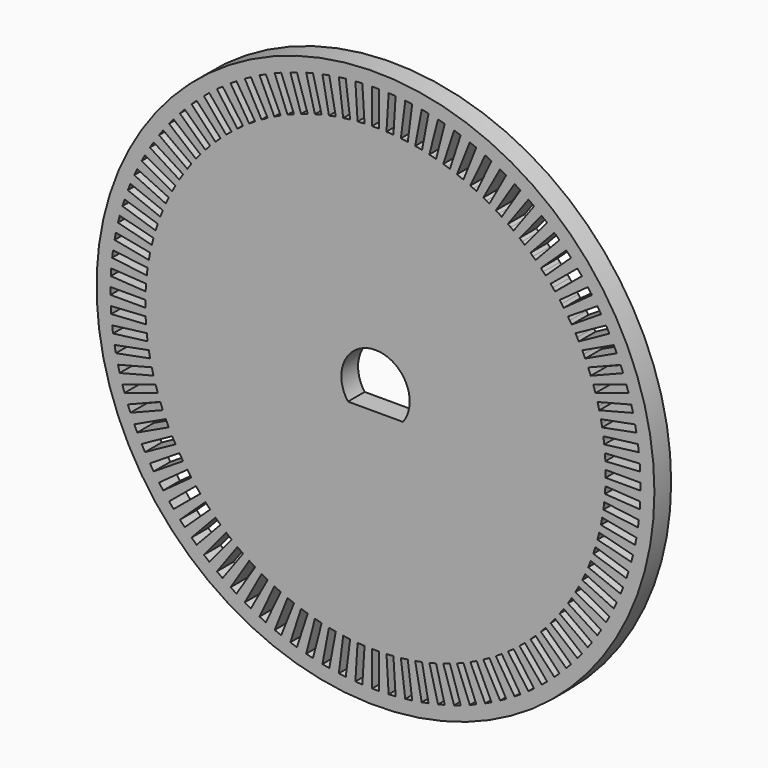
from build123d import *

# Parameters (mm, degrees)
F0_R     = 40
F1_DEPTH = 3


with BuildPart() as f1:
    # F0 (on Front) → F1 (new body)
    with BuildSketch(Plane.XZ):
        Circle(F0_R)
        Polygon((-19.396913, -26.697561), (-18.992405, -26.991453), (-21.931331, -31.036538), (-22.740348, -30.448753), (-19.801422, -26.403668), align=None, mode=Mode.SUBTRACT)
        Polygon((-21.034992, -25.426937), (-20.649735, -25.745649), (-23.836855, -29.598215), (-24.607368, -28.960791), (-21.420248, -25.108225), align=None, mode=Mode.SUBTRACT)
        Polygon((-22.590054, -24.055965), (-22.22557, -24.398238), (-25.648306, -28.043081), (-26.377274, -27.358534), (-22.954539, -23.713691), align=None, mode=Mode.SUBTRACT)
        Polygon((-24.055965, -22.590054), (-23.713691, -22.954539), (-27.358534, -26.377274), (-28.043081, -25.648306), (-24.398238, -22.22557), align=None, mode=Mode.SUBTRACT)
        Polygon((-25.426937, -21.034992), (-25.108225, -21.420248), (-28.960791, -24.607368), (-29.598215, -23.836855), (-25.745649, -20.649735), align=None, mode=Mode.SUBTRACT)
        Polygon((-26.697561, -19.396913), (-26.403668, -19.801422), (-30.448753, -22.740348), (-31.036538, -21.931331), (-26.991453, -18.992405), align=None, mode=Mode.SUBTRACT)
        Polygon((-14.050717, -29.859293), (-13.598303, -30.072182), (-15.7272, -34.596318), (-16.632027, -34.170538), (-14.50313, -29.646403), align=None, mode=Mode.SUBTRACT)
        Polygon((-15.897871, -28.91812), (-15.459718, -29.158997), (-17.868486, -33.540531), (-18.744793, -33.058777), (-16.336025, -28.677244), align=None, mode=Mode.SUBTRACT)
        Polygon((-12.14811, -30.682624), (-11.683222, -30.866686), (-13.523845, -35.515569), (-14.453621, -35.147444), (-12.612998, -30.498562), align=None, mode=Mode.SUBTRACT)
        Polygon((-10.197561, -31.384865), (-9.722033, -31.539374), (-11.267118, -36.294656), (-12.218174, -35.985639), (-10.673089, -31.230357), align=None, mode=Mode.SUBTRACT)
        Polygon((-4.135997, -32.739785), (-3.639939, -32.802452), (-4.266606, -37.763025), (-5.25872, -37.637692), (-4.632054, -32.677119), align=None, mode=Mode.SUBTRACT)
        Polygon((-2.072087, -32.934882), (-1.573074, -32.966277), (-1.887026, -37.956411), (-2.885053, -37.89362), (-2.571101, -32.903487), align=None, mode=Mode.SUBTRACT)
        Polygon((-8.206766, -31.963244), (-7.722475, -32.087589), (-8.965924, -36.930505), (-9.934507, -36.681815), (-8.691058, -31.838899), align=None, mode=Mode.SUBTRACT)
        Polygon((-6.183583, -32.415479), (-5.69244, -32.50917), (-6.629346, -37.420606), (-7.611634, -37.233225), (-6.674727, -32.321789), align=None, mode=Mode.SUBTRACT)
        Polygon((-17.682284, -27.862822), (-17.26012, -28.130735), (-19.939254, -32.352375), (-20.783582, -31.816548), (-18.104448, -27.594908), align=None, mode=Mode.SUBTRACT)
        Polygon((-28.91812, -15.897871), (-28.677244, -16.336025), (-33.058777, -18.744793), (-33.540531, -17.868486), (-29.158997, -15.459718), align=None, mode=Mode.SUBTRACT)
        Polygon((-29.859293, -14.050717), (-29.646403, -14.50313), (-34.170538, -16.632027), (-34.596318, -15.7272), (-30.072182, -13.598303), align=None, mode=Mode.SUBTRACT)
        Polygon((-30.682624, -12.14811), (-30.498562, -12.612998), (-35.147444, -14.453621), (-35.515569, -13.523845), (-30.866686, -11.683222), align=None, mode=Mode.SUBTRACT)
        Polygon((-31.384865, -10.197561), (-31.230357, -10.673089), (-35.985639, -12.218174), (-36.294656, -11.267118), (-31.539374, -9.722033), align=None, mode=Mode.SUBTRACT)
        Polygon((-27.862822, -17.682284), (-27.594908, -18.104448), (-31.816548, -20.783582), (-32.352375, -19.939254), (-28.130735, -17.26012), align=None, mode=Mode.SUBTRACT)
        Polygon((-31.963244, -8.206766), (-31.838899, -8.691058), (-36.681815, -9.934507), (-36.930505, -8.965924), (-32.087589, -7.722475), align=None, mode=Mode.SUBTRACT)
        Polygon((-32.415479, -6.183583), (-32.321789, -6.674727), (-37.233225, -7.611634), (-37.420606, -6.629346), (-32.50917, -5.69244), align=None, mode=Mode.SUBTRACT)
        Polygon((-32.739785, -4.135997), (-32.677119, -4.632054), (-37.637692, -5.25872), (-37.763025, -4.266606), (-32.802452, -3.639939), align=None, mode=Mode.SUBTRACT)
        Polygon((-32.934882, -2.072087), (-32.903487, -2.571101), (-37.89362, -2.885053), (-37.956411, -1.887026), (-32.966277, -1.573074), align=None, mode=Mode.SUBTRACT)
        Polygon((0, -33), (0.5, -33), (0.5, -38), (-0.5, -38), (-0.5, -33), align=None, mode=Mode.SUBTRACT)
        Polygon((2.072087, -32.934882), (2.571101, -32.903487), (2.885053, -37.89362), (1.887026, -37.956411), (1.573074, -32.966277), align=None, mode=Mode.SUBTRACT)
        Polygon((4.135997, -32.739785), (4.632054, -32.677119), (5.25872, -37.637692), (4.266606, -37.763025), (3.639939, -32.802452), align=None, mode=Mode.SUBTRACT)
        Polygon((6.183583, -32.415479), (6.674727, -32.321789), (7.611634, -37.233225), (6.629346, -37.420606), (5.69244, -32.50917), align=None, mode=Mode.SUBTRACT)
        Polygon((8.206766, -31.963244), (8.691058, -31.838899), (9.934507, -36.681815), (8.965924, -36.930505), (7.722475, -32.087589), align=None, mode=Mode.SUBTRACT)
        Polygon((10.197561, -31.384865), (10.673089, -31.230357), (12.218174, -35.985639), (11.267118, -36.294656), (9.722033, -31.539374), align=None, mode=Mode.SUBTRACT)
        Polygon((12.14811, -30.682624), (12.612998, -30.498562), (14.453621, -35.147444), (13.523845, -35.515569), (11.683222, -30.866686), align=None, mode=Mode.SUBTRACT)
        Polygon((14.050717, -29.859293), (14.50313, -29.646403), (16.632027, -34.170538), (15.7272, -34.596318), (13.598303, -30.072182), align=None, mode=Mode.SUBTRACT)
        Polygon((15.897871, -28.91812), (16.336025, -28.677244), (18.744793, -33.058777), (17.868486, -33.540531), (15.459718, -29.158997), align=None, mode=Mode.SUBTRACT)
        Polygon((17.682284, -27.862822), (18.104448, -27.594908), (20.783582, -31.816548), (19.939254, -32.352375), (17.26012, -28.130735), align=None, mode=Mode.SUBTRACT)
        Polygon((19.396913, -26.697561), (19.801422, -26.403668), (22.740348, -30.448753), (21.931331, -31.036538), (18.992405, -26.991453), align=None, mode=Mode.SUBTRACT)
        Polygon((21.034992, -25.426937), (21.420248, -25.108225), (24.607368, -28.960791), (23.836855, -29.598215), (20.649735, -25.745649), align=None, mode=Mode.SUBTRACT)
        Polygon((22.590054, -24.055965), (22.954539, -23.713691), (26.377274, -27.358534), (25.648306, -28.043081), (22.22557, -24.398238), align=None, mode=Mode.SUBTRACT)
        Polygon((24.055965, -22.590054), (24.398238, -22.22557), (28.043081, -25.648306), (27.358534, -26.377274), (23.713691, -22.954539), align=None, mode=Mode.SUBTRACT)
        Polygon((25.426937, -21.034992), (25.745649, -20.649735), (29.598215, -23.836855), (28.960791, -24.607368), (25.108225, -21.420248), align=None, mode=Mode.SUBTRACT)
        Polygon((26.697561, -19.396913), (26.991453, -18.992405), (31.036538, -21.931331), (30.448753, -22.740348), (26.403668, -19.801422), align=None, mode=Mode.SUBTRACT)
        Polygon((27.862822, -17.682284), (28.130735, -17.26012), (32.352375, -19.939254), (31.816548, -20.783582), (27.594908, -18.104448), align=None, mode=Mode.SUBTRACT)
        Polygon((28.91812, -15.897871), (29.158997, -15.459718), (33.540531, -17.868486), (33.058777, -18.744793), (28.677244, -16.336025), align=None, mode=Mode.SUBTRACT)
        Polygon((29.859293, -14.050717), (30.072182, -13.598303), (34.596318, -15.7272), (34.170538, -16.632027), (29.646403, -14.50313), align=None, mode=Mode.SUBTRACT)
        Polygon((30.682624, -12.14811), (30.866686, -11.683222), (35.515569, -13.523845), (35.147444, -14.453621), (30.498562, -12.612998), align=None, mode=Mode.SUBTRACT)
        Polygon((31.384865, -10.197561), (31.539374, -9.722033), (36.294656, -11.267118), (35.985639, -12.218174), (31.230357, -10.673089), align=None, mode=Mode.SUBTRACT)
        Polygon((31.963244, -8.206766), (32.087589, -7.722475), (36.930505, -8.965924), (36.681815, -9.934507), (31.838899, -8.691058), align=None, mode=Mode.SUBTRACT)
        Polygon((32.415479, -6.183583), (32.50917, -5.69244), (37.420606, -6.629346), (37.233225, -7.611634), (32.321789, -6.674727), align=None, mode=Mode.SUBTRACT)
        Polygon((32.739785, -4.135997), (32.802452, -3.639939), (37.763025, -4.266606), (37.637692, -5.25872), (32.677119, -4.632054), align=None, mode=Mode.SUBTRACT)
        Polygon((32.934882, -2.072087), (32.966277, -1.573074), (37.956411, -1.887026), (37.89362, -2.885053), (32.903487, -2.571101), align=None, mode=Mode.SUBTRACT)
        Polygon((-33, 0), (-33, -0.5), (-38, -0.5), (-38, 0.5), (-33, 0.5), align=None, mode=Mode.SUBTRACT)
        Polygon((-32.934882, 2.072087), (-32.966277, 1.573074), (-37.956411, 1.887026), (-37.89362, 2.885053), (-32.903487, 2.571101), align=None, mode=Mode.SUBTRACT)
        Polygon((-32.739785, 4.135997), (-32.802452, 3.639939), (-37.763025, 4.266606), (-37.637692, 5.25872), (-32.677119, 4.632054), align=None, mode=Mode.SUBTRACT)
        Polygon((-32.415479, 6.183583), (-32.50917, 5.69244), (-37.420606, 6.629346), (-37.233225, 7.611634), (-32.321789, 6.674727), align=None, mode=Mode.SUBTRACT)
        Polygon((-31.963244, 8.206766), (-32.087589, 7.722475), (-36.930505, 8.965924), (-36.681815, 9.934507), (-31.838899, 8.691058), align=None, mode=Mode.SUBTRACT)
        Polygon((-31.384865, 10.197561), (-31.539374, 9.722033), (-36.294656, 11.267118), (-35.985639, 12.218174), (-31.230357, 10.673089), align=None, mode=Mode.SUBTRACT)
        Polygon((-30.682624, 12.14811), (-30.866686, 11.683222), (-35.515569, 13.523845), (-35.147444, 14.453621), (-30.498562, 12.612998), align=None, mode=Mode.SUBTRACT)
        Polygon((-29.859293, 14.050717), (-30.072182, 13.598303), (-34.596318, 15.7272), (-34.170538, 16.632027), (-29.646403, 14.50313), align=None, mode=Mode.SUBTRACT)
        Polygon((-28.91812, 15.897871), (-29.158997, 15.459718), (-33.540531, 17.868486), (-33.058777, 18.744793), (-28.677244, 16.336025), align=None, mode=Mode.SUBTRACT)
        Polygon((-27.862822, 17.682284), (-28.130735, 17.26012), (-32.352375, 19.939254), (-31.816548, 20.783582), (-27.594908, 18.104448), align=None, mode=Mode.SUBTRACT)
        Polygon((-26.697561, 19.396913), (-26.991453, 18.992405), (-31.036538, 21.931331), (-30.448753, 22.740348), (-26.403668, 19.801422), align=None, mode=Mode.SUBTRACT)
        Polygon((-25.426937, 21.034992), (-25.745649, 20.649735), (-29.598215, 23.836855), (-28.960791, 24.607368), (-25.108225, 21.420248), align=None, mode=Mode.SUBTRACT)
        Polygon((-24.055965, 22.590054), (-24.398238, 22.22557), (-28.043081, 25.648306), (-27.358534, 26.377274), (-23.713691, 22.954539), align=None, mode=Mode.SUBTRACT)
        Polygon((-22.590054, 24.055965), (-22.954539, 23.713691), (-26.377274, 27.358534), (-25.648306, 28.043081), (-22.22557, 24.398238), align=None, mode=Mode.SUBTRACT)
        Polygon((-21.034992, 25.426937), (-21.420248, 25.108225), (-24.607368, 28.960791), (-23.836855, 29.598215), (-20.649735, 25.745649), align=None, mode=Mode.SUBTRACT)
        Polygon((-19.396913, 26.697561), (-19.801422, 26.403668), (-22.740348, 30.448753), (-21.931331, 31.036538), (-18.992405, 26.991453), align=None, mode=Mode.SUBTRACT)
        Polygon((-17.682284, 27.862822), (-18.104448, 27.594908), (-20.783582, 31.816548), (-19.939254, 32.352375), (-17.26012, 28.130735), align=None, mode=Mode.SUBTRACT)
        Polygon((-15.897871, 28.91812), (-16.336025, 28.677244), (-18.744793, 33.058777), (-17.868486, 33.540531), (-15.459718, 29.158997), align=None, mode=Mode.SUBTRACT)
        Polygon((-14.050717, 29.859293), (-14.50313, 29.646403), (-16.632027, 34.170538), (-15.7272, 34.596318), (-13.598303, 30.072182), align=None, mode=Mode.SUBTRACT)
        Polygon((-12.14811, 30.682624), (-12.612998, 30.498562), (-14.453621, 35.147444), (-13.523845, 35.515569), (-11.683222, 30.866686), align=None, mode=Mode.SUBTRACT)
        Polygon((-10.197561, 31.384865), (-10.673089, 31.230357), (-12.218174, 35.985639), (-11.267118, 36.294656), (-9.722033, 31.539374), align=None, mode=Mode.SUBTRACT)
        Polygon((-8.206766, 31.963244), (-8.691058, 31.838899), (-9.934507, 36.681815), (-8.965924, 36.930505), (-7.722475, 32.087589), align=None, mode=Mode.SUBTRACT)
        Polygon((-6.183583, 32.415479), (-6.674727, 32.321789), (-7.611634, 37.233225), (-6.629346, 37.420606), (-5.69244, 32.50917), align=None, mode=Mode.SUBTRACT)
        Polygon((-4.135997, 32.739785), (-4.632054, 32.677119), (-5.25872, 37.637692), (-4.266606, 37.763025), (-3.639939, 32.802452), align=None, mode=Mode.SUBTRACT)
        Polygon((-2.072087, 32.934882), (-2.571101, 32.903487), (-2.885053, 37.89362), (-1.887026, 37.956411), (-1.573074, 32.966277), align=None, mode=Mode.SUBTRACT)
        with BuildLine():
            ThreePointArc((-3.949684, -2.9), (-4.371499, 2.213594), (0, 4.9))
            ThreePointArc((0, 4.9), (4.371499, 2.213594), (3.949684, -2.9))
            Line((3.949684, -2.9), (-3.949684, -2.9))
        make_face(mode=Mode.SUBTRACT)
        Polygon((33, 0), (33, 0.5), (38, 0.5), (38, -0.5), (33, -0.5), align=None, mode=Mode.SUBTRACT)
        Polygon((32.934882, 2.072087), (32.903487, 2.571101), (37.89362, 2.885053), (37.956411, 1.887026), (32.966277, 1.573074), align=None, mode=Mode.SUBTRACT)
        Polygon((32.739785, 4.135997), (32.677119, 4.632054), (37.637692, 5.25872), (37.763025, 4.266606), (32.802452, 3.639939), align=None, mode=Mode.SUBTRACT)
        Polygon((32.415479, 6.183583), (32.321789, 6.674727), (37.233225, 7.611634), (37.420606, 6.629346), (32.50917, 5.69244), align=None, mode=Mode.SUBTRACT)
        Polygon((31.963244, 8.206766), (31.838899, 8.691058), (36.681815, 9.934507), (36.930505, 8.965924), (32.087589, 7.722475), align=None, mode=Mode.SUBTRACT)
        Polygon((27.862822, 17.682284), (27.594908, 18.104448), (31.816548, 20.783582), (32.352375, 19.939254), (28.130735, 17.26012), align=None, mode=Mode.SUBTRACT)
        Polygon((31.384865, 10.197561), (31.230357, 10.673089), (35.985639, 12.218174), (36.294656, 11.267118), (31.539374, 9.722033), align=None, mode=Mode.SUBTRACT)
        Polygon((30.682624, 12.14811), (30.498562, 12.612998), (35.147444, 14.453621), (35.515569, 13.523845), (30.866686, 11.683222), align=None, mode=Mode.SUBTRACT)
        Polygon((29.859293, 14.050717), (29.646403, 14.50313), (34.170538, 16.632027), (34.596318, 15.7272), (30.072182, 13.598303), align=None, mode=Mode.SUBTRACT)
        Polygon((28.91812, 15.897871), (28.677244, 16.336025), (33.058777, 18.744793), (33.540531, 17.868486), (29.158997, 15.459718), align=None, mode=Mode.SUBTRACT)
        Polygon((17.682284, 27.862822), (17.26012, 28.130735), (19.939254, 32.352375), (20.783582, 31.816548), (18.104448, 27.594908), align=None, mode=Mode.SUBTRACT)
        Polygon((6.183583, 32.415479), (5.69244, 32.50917), (6.629346, 37.420606), (7.611634, 37.233225), (6.674727, 32.321789), align=None, mode=Mode.SUBTRACT)
        Polygon((8.206766, 31.963244), (7.722475, 32.087589), (8.965924, 36.930505), (9.934507, 36.681815), (8.691058, 31.838899), align=None, mode=Mode.SUBTRACT)
        Polygon((0.5, 33), (0, 33), (-0.5, 33), (-0.5, 38), (0.5, 38), align=None, mode=Mode.SUBTRACT)
        Polygon((2.072087, 32.934882), (1.573074, 32.966277), (1.887026, 37.956411), (2.885053, 37.89362), (2.571101, 32.903487), align=None, mode=Mode.SUBTRACT)
        Polygon((4.135997, 32.739785), (3.639939, 32.802452), (4.266606, 37.763025), (5.25872, 37.637692), (4.632054, 32.677119), align=None, mode=Mode.SUBTRACT)
        Polygon((10.197561, 31.384865), (9.722033, 31.539374), (11.267118, 36.294656), (12.218174, 35.985639), (10.673089, 31.230357), align=None, mode=Mode.SUBTRACT)
        Polygon((12.14811, 30.682624), (11.683222, 30.866686), (13.523845, 35.515569), (14.453621, 35.147444), (12.612998, 30.498562), align=None, mode=Mode.SUBTRACT)
        Polygon((15.897871, 28.91812), (15.459718, 29.158997), (17.868486, 33.540531), (18.744793, 33.058777), (16.336025, 28.677244), align=None, mode=Mode.SUBTRACT)
        Polygon((14.050717, 29.859293), (13.598303, 30.072182), (15.7272, 34.596318), (16.632027, 34.170538), (14.50313, 29.646403), align=None, mode=Mode.SUBTRACT)
        Polygon((26.697561, 19.396913), (26.403668, 19.801422), (30.448753, 22.740348), (31.036538, 21.931331), (26.991453, 18.992405), align=None, mode=Mode.SUBTRACT)
        Polygon((25.426937, 21.034992), (25.108225, 21.420248), (28.960791, 24.607368), (29.598215, 23.836855), (25.745649, 20.649735), align=None, mode=Mode.SUBTRACT)
        Polygon((24.055965, 22.590054), (23.713691, 22.954539), (27.358534, 26.377274), (28.043081, 25.648306), (24.398238, 22.22557), align=None, mode=Mode.SUBTRACT)
        Polygon((22.590054, 24.055965), (22.22557, 24.398238), (25.648306, 28.043081), (26.377274, 27.358534), (22.954539, 23.713691), align=None, mode=Mode.SUBTRACT)
        Polygon((21.034992, 25.426937), (20.649735, 25.745649), (23.836855, 29.598215), (24.607368, 28.960791), (21.420248, 25.108225), align=None, mode=Mode.SUBTRACT)
        Polygon((19.396913, 26.697561), (18.992405, 26.991453), (21.931331, 31.036538), (22.740348, 30.448753), (19.801422, 26.403668), align=None, mode=Mode.SUBTRACT)
    extrude(amount=F1_DEPTH)


solid = f1.part
